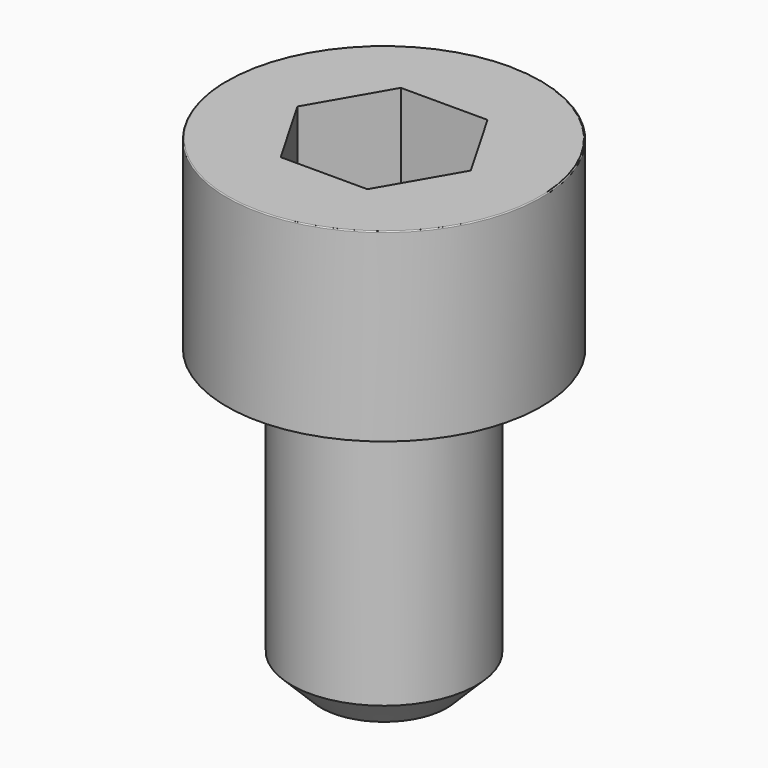
from build123d import *

# Parameters (mm, degrees)
POCKET_DEPTH = 4.06


with BuildPart() as part:
    # Sketch → Revolve (revolve)
    with BuildSketch(Plane.YZ):
        with BuildLine():
            Line((2.499, 0), (4.25, 0))
            Line((4.25, 0), (4.25, 4.97229))
            ThreePointArc((4.25, 4.97229), (4.241884, 4.991884), (4.22229, 5))
            Line((4.22229, 5), (0, 5))
            Line((0, -8), (0, 5))
            Line((1.7, -8), (0, -8))
            Line((2.5, -7.2), (1.7, -8))
            Line((2.5, -0.2), (2.5, -7.2))
            Line((2.499, 0), (2.5, -0.2))
        make_face()
    revolve(axis=Axis((0, 0, 0), (0, 0, 1)))

    # Sketch001 → Pocket (cut)
    with BuildSketch(Plane.XY.offset(5)):
        Polygon((2.344042, 0), (1.172021, 2.03), (-1.172021, 2.03), (-2.344042, 0), (-1.172021, -2.03), (1.172021, -2.03), align=None)
    extrude(amount=-POCKET_DEPTH, mode=Mode.SUBTRACT)


solid = part.part
